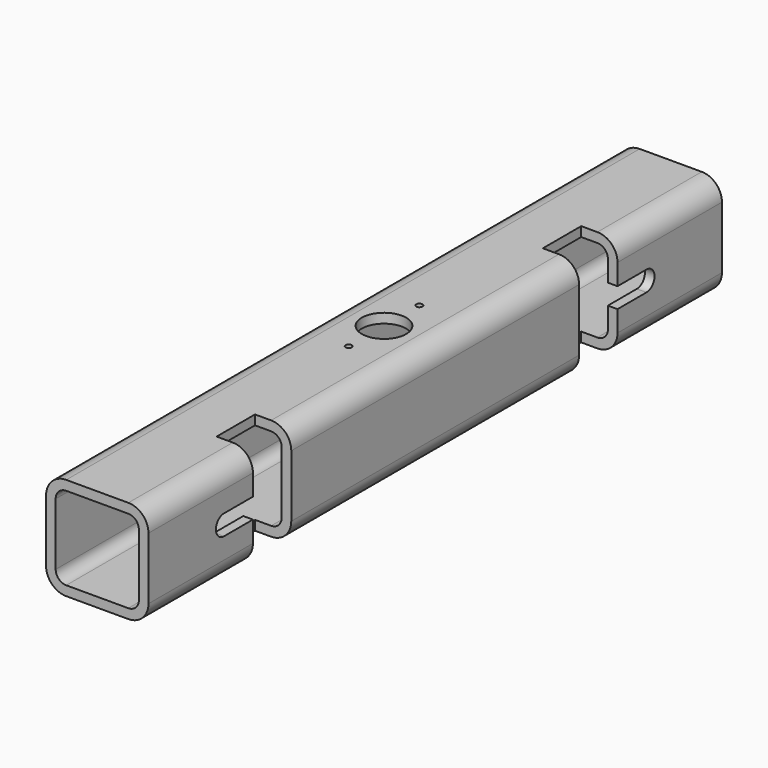
from build123d import *

# Parameters (mm, degrees)
PAD005_DEPTH    = 177.8
SKETCH007_W     = 25
SKETCH007_H     = 23.8
POCKET002_DEPTH = 50.801
POCKET003_DEPTH = 46.0375
SKETCH010_R     = 11
SKETCH010_R_2   = 1.55
POCKET004_DEPTH = 4.7625
SKETCH011_W     = 40
SKETCH011_H     = 25
POCKET005_DEPTH = 35


with BuildPart() as part:
    # Sketch008 → Pad005 (new body, symmetric)
    with BuildSketch(Plane.XZ):
        with BuildLine():
            Line((10, 0), (40.8, 0))
            ThreePointArc((40.8, 0), (47.871068, 2.928932), (50.8, 10))
            Line((50.8, 10), (50.8, 40.8))
            ThreePointArc((50.8, 40.8), (47.871068, 47.871068), (40.8, 50.8))
            Line((40.8, 50.8), (10, 50.8))
            ThreePointArc((10, 50.8), (2.928932, 47.871068), (0, 40.8))
            Line((0, 40.8), (0, 10))
            ThreePointArc((0, 10), (2.928932, 2.928932), (10, 0))
        make_face()
        with BuildLine():
            Line((10, 46.0375), (40.8, 46.0375))
            ThreePointArc((46.0375, 40.8), (44.503472, 44.503472), (40.8, 46.0375))
            Line((46.0375, 40.8), (46.0375, 10))
            ThreePointArc((40.8, 4.7625), (44.503472, 6.296528), (46.0375, 10))
            Line((40.8, 4.7625), (10, 4.7625))
            ThreePointArc((4.7625, 10), (6.296528, 6.296528), (10, 4.7625))
            Line((4.7625, 10), (4.7625, 40.8))
            ThreePointArc((10, 46.0375), (6.296528, 44.503472), (4.7625, 40.8))
        make_face(mode=Mode.SUBTRACT)
    extrude(amount=PAD005_DEPTH, both=True)

    # Sketch007 → Pocket002 (cut, through all)
    with BuildSketch(Plane.XY.offset(50.8)):
        with Locations((45.3, 101.15)):
            Rectangle(SKETCH007_W, SKETCH007_H)
        with Locations((45.3, -101.15)):
            Rectangle(SKETCH007_W, SKETCH007_H)
    extrude(amount=-POCKET002_DEPTH, mode=Mode.SUBTRACT)

    # Sketch009 → Pocket003 (cut)
    with BuildSketch(Plane.YZ.offset(50.8)):
        with BuildLine():
            ThreePointArc((-131, 30.4), (-136, 25.4), (-131, 20.4))
            Line((-131, 20.4), (-95, 20.4))
            ThreePointArc((-95, 20.4), (-90, 25.4), (-95, 30.4))
            Line((-131, 30.4), (-95, 30.4))
        make_face()
        with BuildLine():
            ThreePointArc((95, 30.4), (90, 25.4), (95, 20.4))
            Line((95, 20.4), (131, 20.4))
            ThreePointArc((131, 20.4), (136, 25.4), (131, 30.4))
            Line((95, 30.4), (131, 30.4))
        make_face()
    extrude(amount=-POCKET003_DEPTH, mode=Mode.SUBTRACT)

    # Sketch010 → Pocket004 (cut)
    with BuildSketch(Plane.XY.offset(50.8)):
        with Locations((25.4, 0)):
            Circle(SKETCH010_R)
        with Locations((25.4, 21.92031)):
            Circle(SKETCH010_R_2)
        with Locations((25.4, -21.92031)):
            Circle(SKETCH010_R_2)
    extrude(amount=-POCKET004_DEPTH, mode=Mode.SUBTRACT)

    # Sketch011 → Pocket005 (cut)
    with BuildSketch(Plane.YZ):
        with Locations((0, 7.5)):
            Rectangle(SKETCH011_W, SKETCH011_H)
    extrude(amount=POCKET005_DEPTH, mode=Mode.SUBTRACT)


solid = part.part
